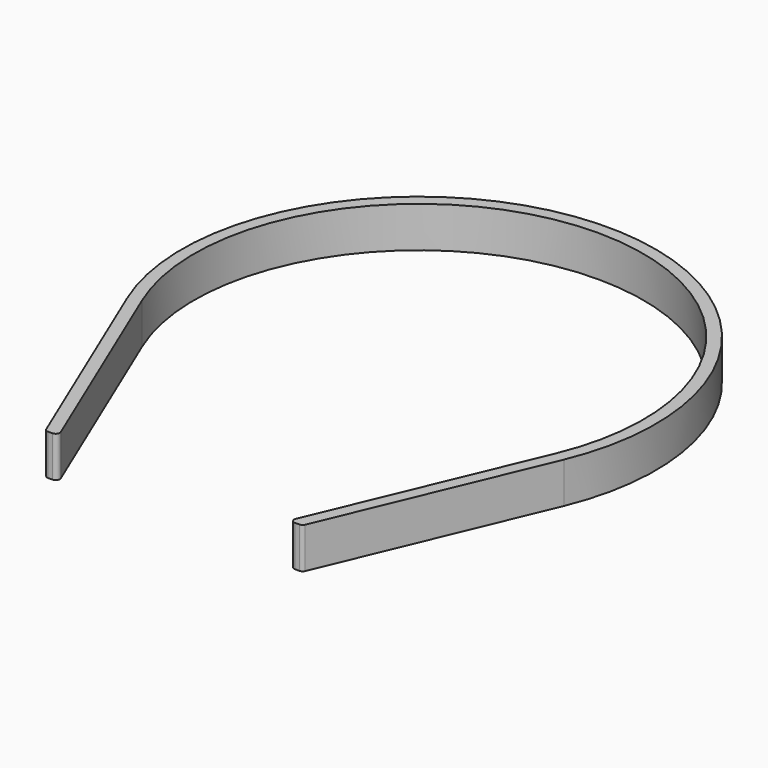
from build123d import *

# Parameters (mm, degrees)
F1_DEPTH = 10


with BuildPart() as f1:
    # F0 (on Top) → F1 (new body)
    with BuildSketch(Plane.XY):
        with BuildLine():
            ThreePointArc((-58.746551, 11.539105), (-8.024476, 87.805772), (42.697599, 11.539105))
            Line((42.697599, 11.539105), (20.749777, -40.807561))
            ThreePointArc((20.749777, -40.807561), (20.83933, -41.748003), (21.671996, -42.194228))
            Line((21.671996, -42.194228), (22.756337, -42.194228))
            ThreePointArc((22.756337, -42.194228), (23.310112, -42.026894), (23.678556, -41.580895))
            Line((23.678556, -41.580895), (45.464258, 10.379105))
            ThreePointArc((45.464258, 10.379105), (-8.024476, 90.805772), (-61.513209, 10.379105))
            Line((-61.513209, 10.379105), (-39.727507, -41.580895))
            ThreePointArc((-39.727507, -41.580895), (-39.359063, -42.026894), (-38.805288, -42.194228))
            Line((-38.805288, -42.194228), (-37.720947, -42.194228))
            ThreePointArc((-37.720947, -42.194228), (-36.888281, -41.748003), (-36.798728, -40.807561))
            Line((-36.798728, -40.807561), (-58.746551, 11.539105))
        make_face()
    extrude(amount=F1_DEPTH)


solid = f1.part
